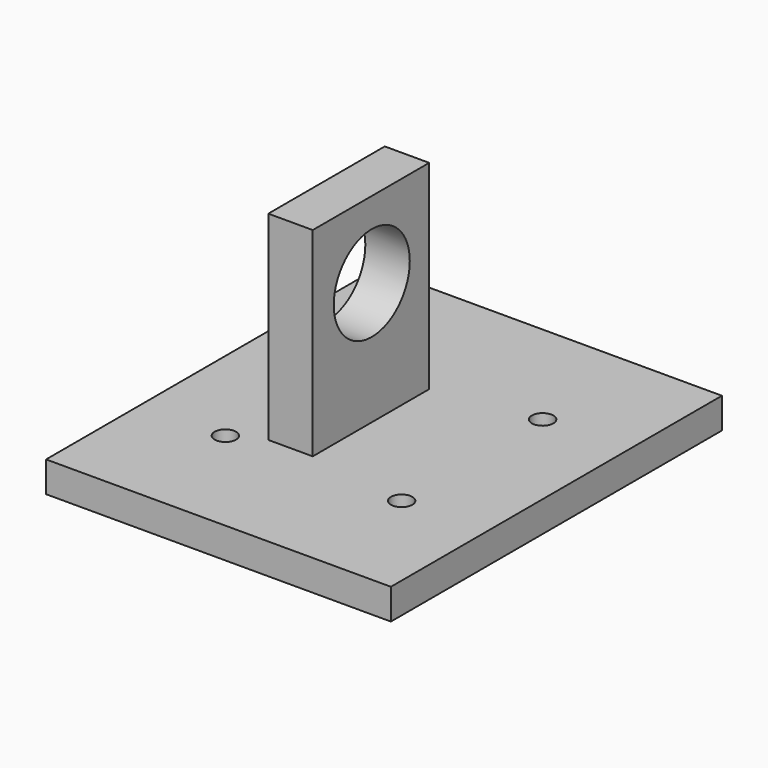
from build123d import *

# Parameters (mm, degrees)
F0_W     = 45
F0_H     = 54
F0_R     = 1.4
F0_W_2   = 5.8
F0_H_2   = 19
F1_DEPTH = 4
F2_DEPTH = 30
F3_R     = 6.2
F4_DEPTH = 25


with BuildPart() as f1:
    # F0 (on Top) → F1 (new body)
    with BuildSketch(Plane.XY):
        with Locations((22.5, 27)):
            Rectangle(F0_W, F0_H)
        with Locations((11, 15.5)):
            Circle(F0_R, mode=Mode.SUBTRACT)
        with Locations((34, 15.5)):
            Circle(F0_R, mode=Mode.SUBTRACT)
        with Locations((11, 38.5)):
            Circle(F0_R, mode=Mode.SUBTRACT)
        with Locations((17.9, 27)):
            Rectangle(F0_W_2, F0_H_2, mode=Mode.SUBTRACT)
        with Locations((34, 38.5)):
            Circle(F0_R, mode=Mode.SUBTRACT)
    extrude(amount=F1_DEPTH)

    # F0 (on Top) → F2 (join)
    with BuildSketch(Plane.XY):
        with Locations((17.9, 27)):
            Rectangle(F0_W_2, F0_H_2)
    extrude(amount=F2_DEPTH)

    # F3 (on Right) → F4 (cut)
    with BuildSketch(Plane.YZ):
        with Locations((27.128499, 20)):
            Circle(F3_R)
    extrude(amount=F4_DEPTH, mode=Mode.SUBTRACT)


solid = f1.part
